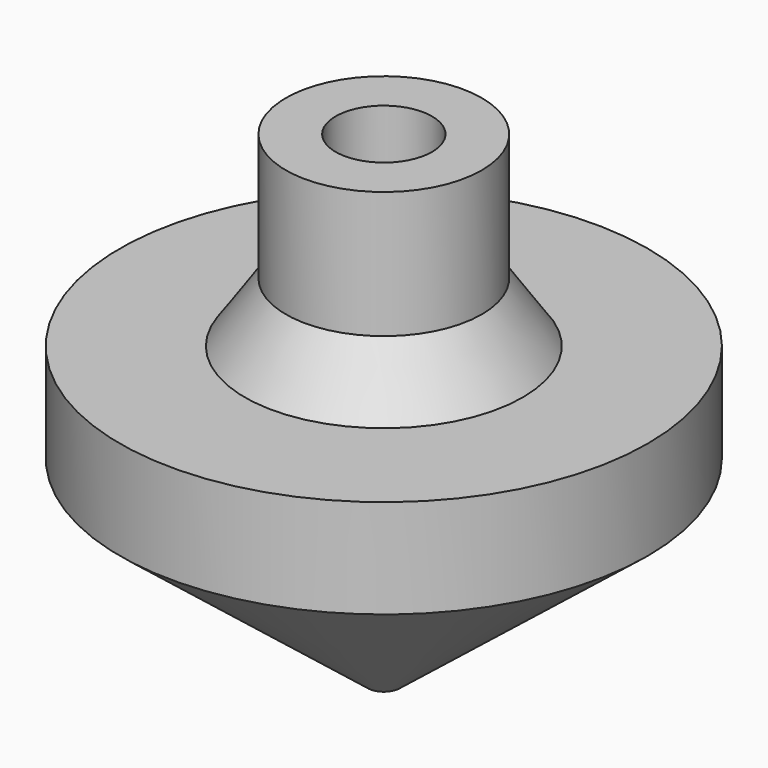
from build123d import *

# Parameters (mm, degrees)
F2_R     = 4.7625
F3_DEPTH = 9.525
F4_R     = 1.5875
F5_DEPTH = 22.225


with BuildPart() as f1:
    # F0 (on Front) → F1 (revolve)
    with BuildSketch(Plane.XZ):
        Polygon((0, 48.946209), (0, 0), (26.086207, 20.739919), (26.086207, 30.510725), (13.734438, 30.510725), (9.678629, 36.410082), (9.678629, 48.946209), align=None)
    revolve(axis=Axis((0, 0, 24.473105), (0, 0, -1)))

    # F2 (on face) → F3 (cut)
    with BuildSketch(Plane.XY.offset(48.946209)):
        Circle(F2_R)
    extrude(amount=-F3_DEPTH, mode=Mode.SUBTRACT)

    # F4 (on Top) → F5 (cut)
    with BuildSketch(Plane.XY):
        Circle(F4_R)
    extrude(amount=F5_DEPTH, mode=Mode.SUBTRACT)


solid = f1.part
